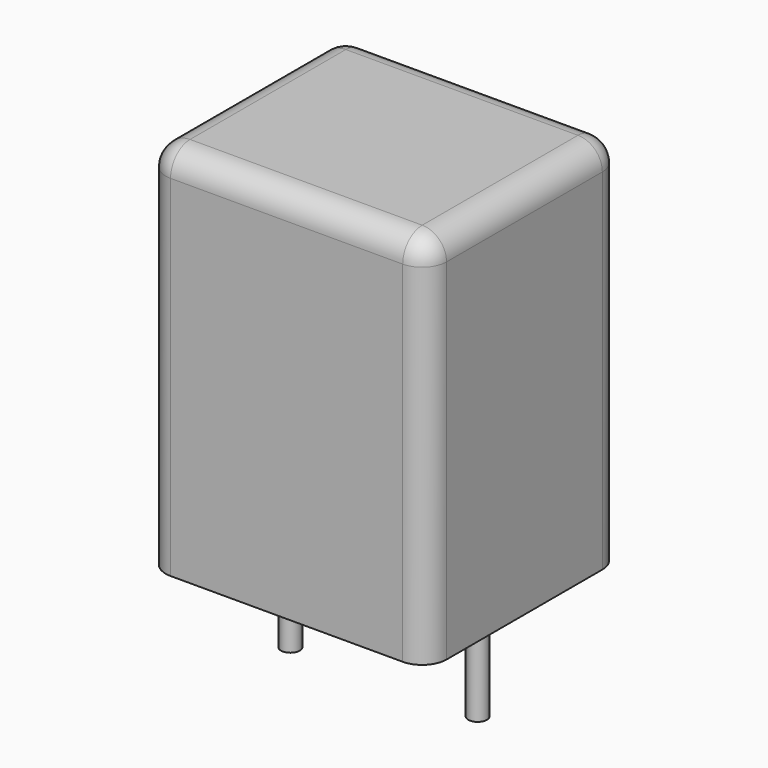
from build123d import *

# Parameters (mm, degrees)
SKETCH_W     = 7.5
SKETCH_H     = 6.5
PAD_DEPTH    = 10
FILLET_R     = 0.65
SKETCH001_R  = 0.25
PAD001_DEPTH = 3.2


with BuildPart() as fillet_body:
    # Sketch → Pad (new body)
    with BuildSketch(Plane.XY.offset(0.1)):
        with Locations((2.5, 0)):
            Rectangle(SKETCH_W, SKETCH_H)
    extrude(amount=PAD_DEPTH)

    # Fillet
    fillet_edges = [fillet_body.edges().sort_by_distance(p)[0] for p in [
        (-1.25, 0, 10.1),
        (-1.25, -3.25, 5.1),
        (2.5, -3.25, 10.1),
        (6.25, -3.25, 5.1),
        (6.25, 0, 10.1),
        (6.25, 3.25, 5.1),
        (2.5, 3.25, 10.1),
        (-1.25, 3.25, 5.1),
    ]]
    fillet(fillet_edges, radius=FILLET_R)


with BuildPart() as pad001:
    # Sketch001 → Pad001 (new body)
    with BuildSketch(Plane.XY.offset(0.5)):
        Circle(SKETCH001_R)
        with Locations((5, 0)):
            Circle(SKETCH001_R)
    extrude(amount=-PAD001_DEPTH)


solid = Compound([fillet_body.part, pad001.part])
